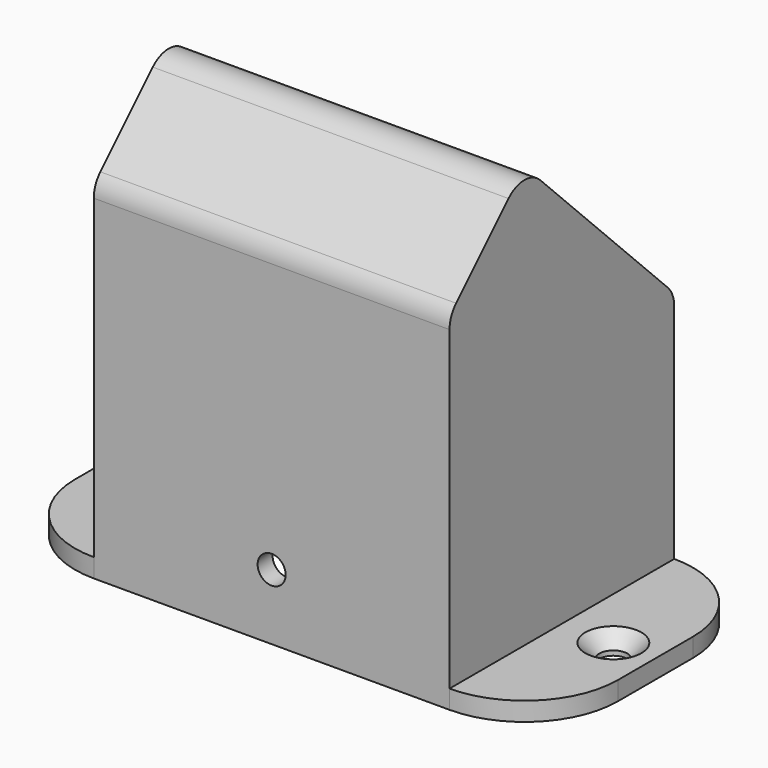
from build123d import *

# Parameters (mm, degrees)
F1_DEPTH       = 19
F1_DEPTH_BACK  = 19
F2_R           = 3
F3_T           = -2
F4_W           = 34
F4_H           = 26
F5_DEPTH       = 2
F6_R           = 11.5
F7_DEPTH       = 2
F9_D           = 3
F9_CSINK_D     = 6
F9_CSINK_ANGLE = 90
F11_D          = 3
F11_DEPTH      = 12
F12_R          = 10
F13_R          = 10
F14_R          = 10


with BuildPart() as f1:
    # F0 (on Right) → F1 (new body, two sides)
    with BuildSketch(Plane.YZ) as f1_sk:
        Polygon((0, 35), (0, 0), (30, 0), (30, 25), (10, 45), align=None)
    extrude(amount=F1_DEPTH)
    extrude(f1_sk.sketch, amount=-F1_DEPTH_BACK)

    # F2
    f2_edges = [f1.edges().sort_by_distance(p)[0] for p in [
        (0, 10, 45),
        (0, 0, 35),
        (0, 30, 25),
    ]]
    fillet(f2_edges, radius=F2_R)

    # F3
    f3_openings = [f1.faces().sort_by_distance(p)[0] for p in [
        (0, 15, 0),
    ]]
    offset(amount=F3_T, openings=f3_openings)

    # F4 (on Top) → F5 (join)
    with BuildSketch(Plane.XY):
        with BuildLine():
            Line((-29, 0), (29, 0))
            Line((29, 0), (29, 20))
            ThreePointArc((29, 20), (26.071068, 27.071068), (19, 30))
            Line((19, 30), (-17, 30))
            Line((-17, 30), (-29, 30))
            Line((-29, 30), (-29, 0))
        make_face()
        with Locations((0, 15)):
            Rectangle(F4_W, F4_H, mode=Mode.SUBTRACT)
    extrude(amount=-F5_DEPTH)

    # F6 (on face) → F7 (cut, through all)
    with BuildSketch(Plane(origin=(0, 27.5, 27.5), x_dir=(-1, 0, 0), z_dir=(0, 0.707107, 0.707107))):
        with Locations((0, 9.727922)):
            Circle(F6_R)
    extrude(amount=-F7_DEPTH, mode=Mode.SUBTRACT)

    # F9 (through all)
    with Locations(Plane.XY):
        with Locations((24.5, 15), (-24.5, 15)):
            CounterSinkHole(F9_D / 2, F9_CSINK_D / 2, counter_sink_angle=F9_CSINK_ANGLE)

    # F11
    with Locations(Plane.XZ):
        with Locations((0, 5)):
            Hole(F11_D / 2, depth=F11_DEPTH)

    # F12
    f12_edges = [f1.edges().sort_by_distance(p)[0] for p in [
        (29, 0, -1),
    ]]
    fillet(f12_edges, radius=F12_R)

    # F13
    f13_edges = [f1.edges().sort_by_distance(p)[0] for p in [
        (-29, 30, -1),
    ]]
    fillet(f13_edges, radius=F13_R)

    # F14
    f14_edges = [f1.edges().sort_by_distance(p)[0] for p in [
        (-29, 0, -1),
    ]]
    fillet(f14_edges, radius=F14_R)


solid = f1.part
